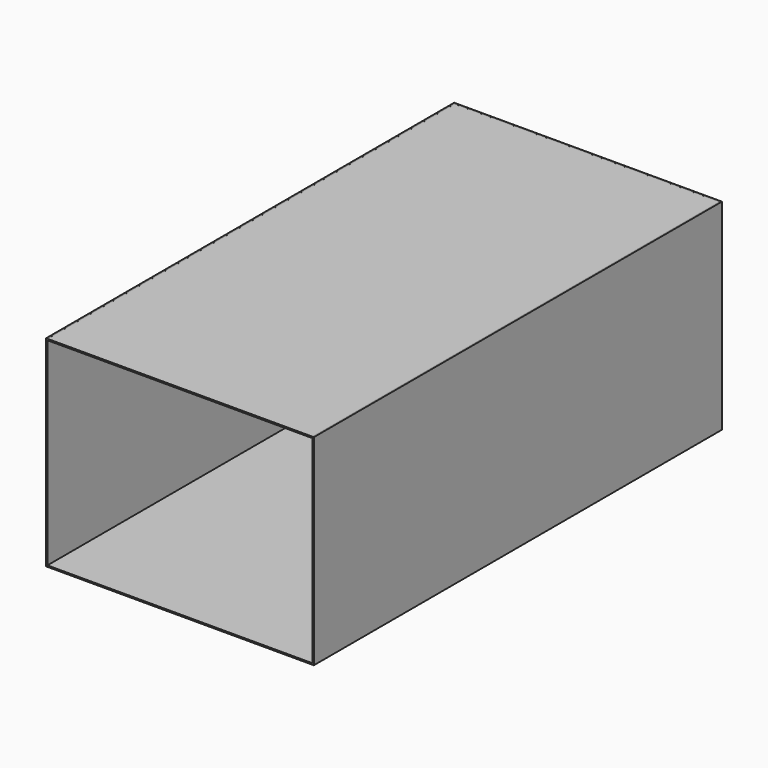
from build123d import *

# Parameters (mm, degrees)
F0_W     = 1000
F0_H     = 750
F1_DEPTH = 5
F2_W     = 5
F2_H     = 750
F3_DEPTH = 1900
F5_DEPTH = 1900
F7_DEPTH = 1900
F8_DEPTH = 1900


with BuildPart() as f1:
    # F0 (on Front) → F1 (new body)
    with BuildSketch(Plane.XZ):
        Rectangle(F0_W, F0_H)
    extrude(amount=F1_DEPTH)

    # F2 (on face) → F3 (join)
    with BuildSketch(Plane.XZ.offset(5)):
        with Locations((-497.5, 0)):
            Rectangle(F2_W, F2_H)
        with Locations((497.5, 0)):
            Rectangle(F2_W, F2_H)
    extrude(amount=F3_DEPTH)

    # F2 (on face) → F5 (join)
    with BuildSketch(Plane.XZ.offset(5)):
        with Locations((-497.5, 0)):
            Rectangle(F2_W, F2_H)
        with Locations((497.5, 0)):
            Rectangle(F2_W, F2_H)
    extrude(amount=F5_DEPTH)


with BuildPart() as f7:
    # F6 (on face) → F7 (new body)
    with BuildSketch(Plane.XZ.offset(5)):
        Polygon((495.025089, 374.946773), (-494.974911, 374.952798), (-494.974911, 369.952798), (495.025089, 369.952798), align=None)
        Polygon((-494.979475, -374.952817), (495.020525, -374.958842), (495.020586, -369.964866), (-494.979414, -369.952817), align=None)
    extrude(amount=F7_DEPTH)


with BuildPart() as f8:
    # F6 (on face) → F8 (new body)
    with BuildSketch(Plane.XZ.offset(5)):
        Polygon((495.025089, 374.946773), (-494.974911, 374.952798), (-494.974911, 369.952798), (495.025089, 369.952798), align=None)
        Polygon((-494.979475, -374.952817), (495.020525, -374.958842), (495.020586, -369.964866), (-494.979414, -369.952817), align=None)
    extrude(amount=F8_DEPTH)


solid = Compound([f1.part, f7.part, f8.part])
